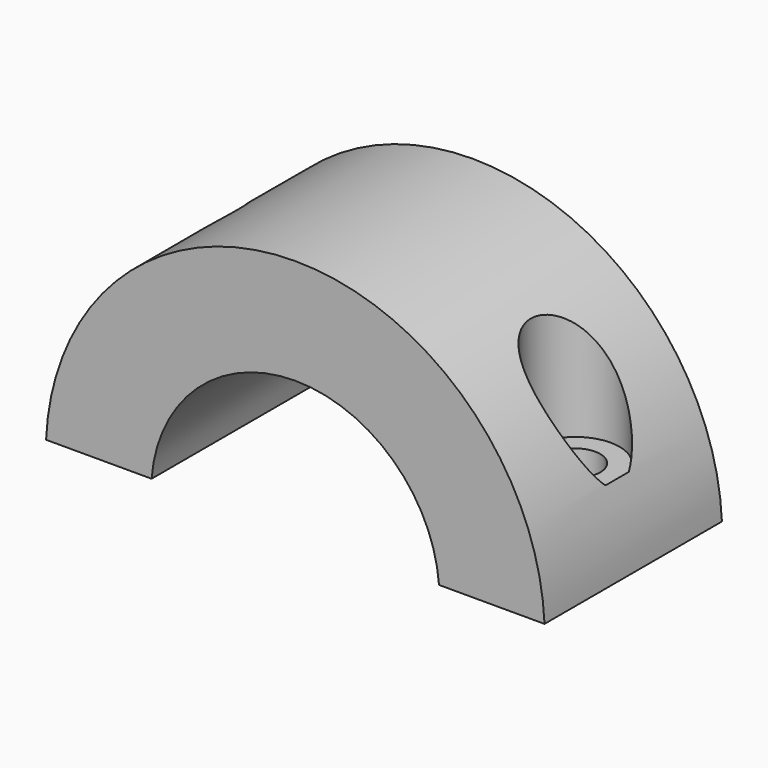
from build123d import *

# Parameters (mm, degrees)
F1_DEPTH = 20
F2_R     = 2.25
F3_DEPTH = 21.501
F5_R     = 4
F6_DEPTH = 14.501


with BuildPart() as f1:
    # F0 (on Front) → F1 (new body)
    with BuildSketch(Plane.XZ):
        with BuildLine():
            ThreePointArc((-12.961481, 1), (0, 13), (12.961481, 1))
            Line((12.961481, 1), (22.477767, 1))
            ThreePointArc((22.477767, 1), (0, 22.5), (-22.477767, 1))
            Line((-22.477767, 1), (-12.961481, 1))
        make_face()
    extrude(amount=F1_DEPTH)

    # F2 (on face) → F3 (cut, through all)
    with BuildSketch(Plane(origin=(0, 0, 1), x_dir=(1, 0, 0), z_dir=(0, 0, -1))):
        with Locations((-17.25, 10)):
            Circle(F2_R)
        with Locations((17.25, 10)):
            Circle(F2_R)
    extrude(amount=-F3_DEPTH, mode=Mode.SUBTRACT)

    # F5 (on offset) → F6 (cut, through all)
    with BuildSketch(Plane.XY.offset(8)):
        with Locations((-17.25, -10)):
            Circle(F5_R)
        with Locations((17.25, -10)):
            Circle(F5_R)
    extrude(amount=F6_DEPTH, mode=Mode.SUBTRACT)


solid = f1.part
